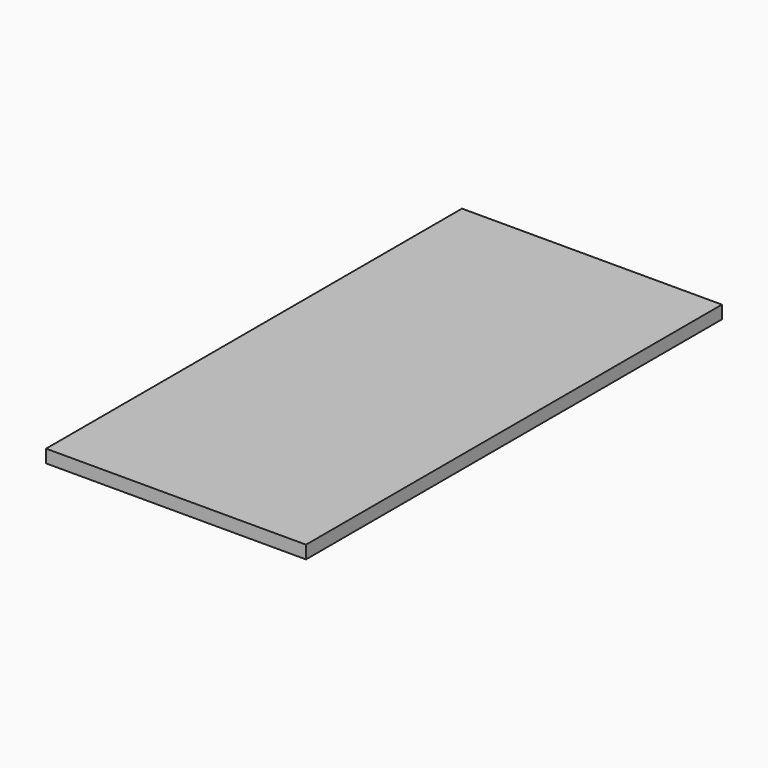
from build123d import *

# Parameters (mm, degrees)
BOX008_W     = 40
BOX008_H     = 80
BOX008_DEPTH = 2
BOX009_W     = 3
BOX009_H     = 3
BOX009_DEPTH = 2


with BuildPart() as obj1:
    # Box008 → Box008 (new body)
    with BuildSketch(Plane(origin=(-24.5, -13, 597.5), x_dir=(1, 0, 0), z_dir=(0, 0, 1))):
        with Locations((20, 40)):
            Rectangle(BOX008_W, BOX008_H)
    extrude(amount=BOX008_DEPTH)


with BuildPart() as pcb:
    # Box009 → Box009 (new body)
    with BuildSketch(Plane(origin=(-1.5, -2, 596.5), x_dir=(1, 0, 0), z_dir=(0, 0, 1))):
        with Locations((1.5, 1.5)):
            Rectangle(BOX009_W, BOX009_H)
    extrude(amount=BOX009_DEPTH)

    # Fusion006: union obj1
    add(obj1.part)


with BuildPart() as pcb_1:
    # Fusion006 placement: moved
    add(pcb.part.moved(Location((0, 0, -5))))


solid = pcb_1.part
